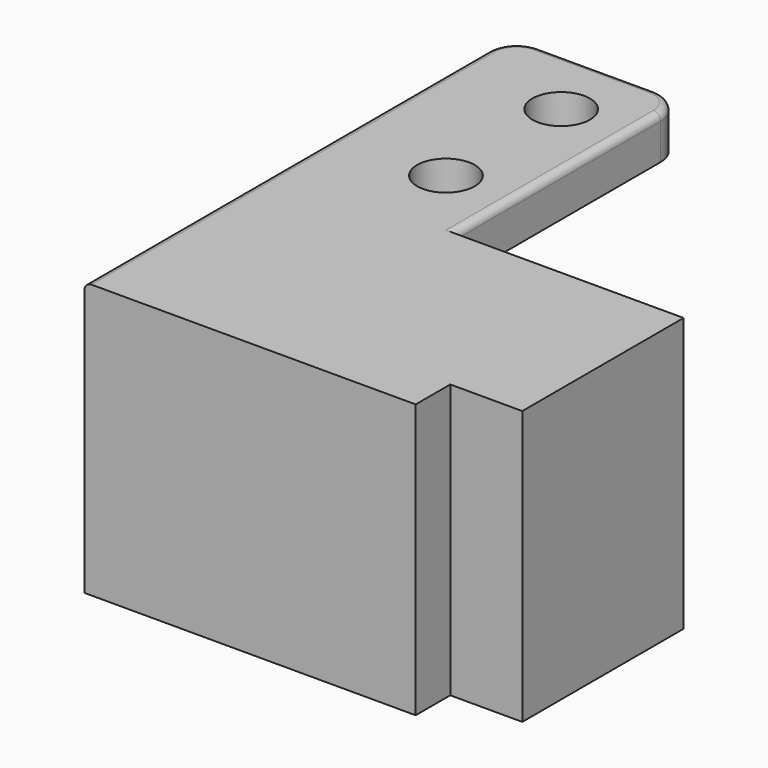
from build123d import *

# Parameters (mm, degrees)
SKETCH_W     = 17
SKETCH_H     = 14
SKETCH_R     = 2.5
PAD_DEPTH    = 3
SKETCH001_W  = 3
SKETCH001_H  = 14
PAD001_DEPTH = 16
SKETCH002_W  = 14
SKETCH002_H  = 3
PAD002_DEPTH = 13
SKETCH003_W  = 34
SKETCH003_H  = 3
PAD003_DEPTH = 9
SKETCH004_W  = 14
SKETCH004_H  = 3
PAD004_DEPTH = 8
SKETCH006_R  = 2
POCKET_DEPTH = 19.001
PAD005_DEPTH = 3
SKETCH008_W  = 23
SKETCH008_H  = 19
PAD006_DEPTH = 3
SKETCH009_W  = 3
SKETCH009_H  = 19
PAD007_DEPTH = 4
CHAMFER_SIZE = 2.9
FILLET_R     = 2
FILLET001_R  = 2
FILLET002_R  = 0.5


with BuildPart() as part:
    # Sketch → Pad (new body)
    with BuildSketch(Plane.XY):
        with Locations((3.5, 0)):
            Rectangle(SKETCH_W, SKETCH_H)
        Circle(SKETCH_R, mode=Mode.SUBTRACT)
    extrude(amount=PAD_DEPTH)

    # Sketch001 (on Face7 of Pad) → Pad001 (join)
    with BuildSketch(Plane.XY.offset(3)):
        with Locations((10.5, 0)):
            Rectangle(SKETCH001_W, SKETCH001_H)
    extrude(amount=PAD001_DEPTH)

    # Sketch002 (on Face10 of Pad001) → Pad002 (join)
    with BuildSketch(Plane(origin=(9, 0, 0), x_dir=(0, -1, 0), z_dir=(-1, 0, 0))):
        with Locations((0, 17.5)):
            Rectangle(SKETCH002_W, SKETCH002_H)
    extrude(amount=PAD002_DEPTH)

    # Sketch003 (on Face16 of Pad002) → Pad003 (join)
    with BuildSketch(Plane(origin=(-4, 0, 0), x_dir=(0, -1, 0), z_dir=(-1, 0, 0))):
        with Locations((-10, 17.5)):
            Rectangle(SKETCH003_W, SKETCH003_H)
    extrude(amount=PAD003_DEPTH)

    # Sketch004 (on Face2 of Pad003) → Pad004 (join)
    with BuildSketch(Plane(origin=(-5, 0, 0), x_dir=(0, -1, 0), z_dir=(-1, 0, 0))):
        with Locations((0, 1.5)):
            Rectangle(SKETCH004_W, SKETCH004_H)
    extrude(amount=PAD004_DEPTH)

    # Sketch006 → Pocket (cut, through all)
    with BuildSketch(Plane.XY.offset(19)):
        with Locations((-8.5, 22)):
            Circle(SKETCH006_R)
        with Locations((-8.5, 12)):
            Circle(SKETCH006_R)
    extrude(amount=-POCKET_DEPTH, mode=Mode.SUBTRACT)

    # Sketch007 (on Face26 of Pocket) → Pad005 (join)
    with BuildSketch(Plane(origin=(-13, 0, 0), x_dir=(0, -1, 0), z_dir=(-1, 0, 0))):
        Polygon((-27, 19), (7, 19), (7, 0), (-7, 0), (-27, 16), align=None)
    extrude(amount=PAD005_DEPTH)

    # Sketch008 (on Face10 of Pad005) → Pad006 (join)
    with BuildSketch(Plane.XZ.offset(7)):
        with Locations((-4.5, 9.5)):
            Rectangle(SKETCH008_W, SKETCH008_H)
    extrude(amount=PAD006_DEPTH)

    # Sketch009 (on Face15 of Pad006) → Pad007 (join)
    with BuildSketch(Plane(origin=(9, 0, 0), x_dir=(0, -1, 0), z_dir=(-1, 0, 0))):
        with Locations((5.5, 9.5)):
            Rectangle(SKETCH009_W, SKETCH009_H)
    extrude(amount=PAD007_DEPTH)

    # Chamfer
    chamfer_edges = [part.edges().sort_by_distance(p)[0] for p in [
        (5, -4, 9.5),
    ]]
    chamfer(chamfer_edges, length=CHAMFER_SIZE)

    # Fillet
    fillet_edges = [part.edges().sort_by_distance(p)[0] for p in [
        (-4, 27, 17.5),
    ]]
    fillet(fillet_edges, radius=FILLET_R)

    # Fillet001
    fillet001_edges = [part.edges().sort_by_distance(p)[0] for p in [
        (-16, 27, 17.5),
    ]]
    fillet(fillet001_edges, radius=FILLET001_R)

    # Fillet002
    fillet002_edges = [part.edges().sort_by_distance(p)[0] for p in [
        (-16, 9, 19),
    ]]
    fillet(fillet002_edges, radius=FILLET002_R)


solid = part.part
